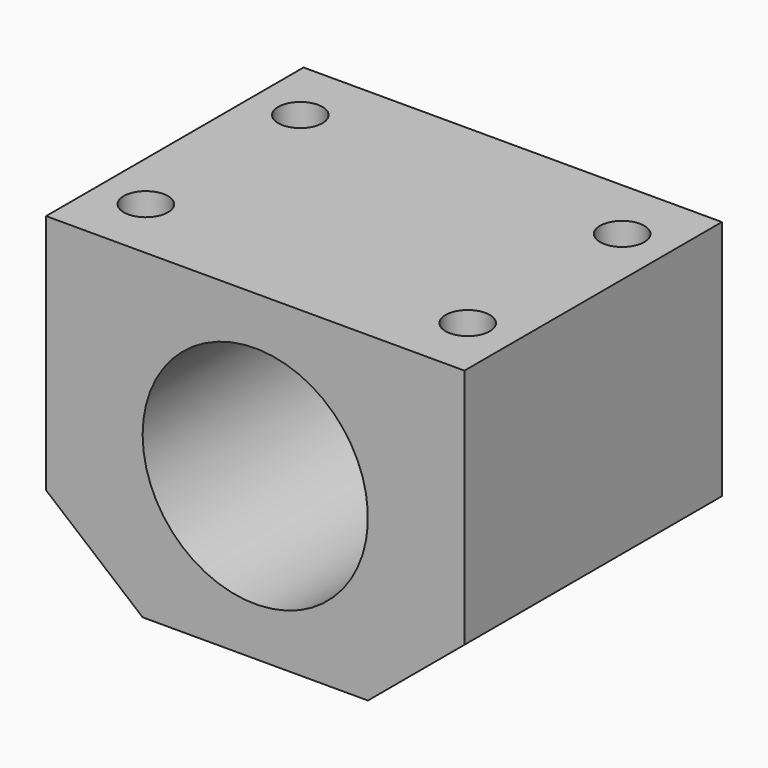
from build123d import *

# Parameters (mm, degrees)
F1_DEPTH = 40
F2_D     = 28
F4_D     = 5.5
F4_DEPTH = 20
F4_TIP   = 1.6523667023


with BuildPart() as f1:
    # F0 (on Front) → F1 (new body)
    with BuildSketch(Plane.XZ):
        Polygon((26, 22.7809774678), (-26, 22.7809774678), (-26, -7.2190225322), (-14, -17.2190225322), (14, -17.2190225322), (26, -7.2190225322), align=None)
    extrude(amount=F1_DEPTH)

    # F2 (through all)
    with Locations(Plane(origin=(0, 0, 0), x_dir=(1, 0, 0), z_dir=(0, 1, 0))):
        with Locations((0, -2.7809774678)):
            Hole(F2_D / 2)

    # F4
    with Locations(Plane.XY.offset(22.7809774678)):
        with Locations((-20, -8), (-20, -32), (20, -32), (20, -8)):
            Hole(F4_D / 2, depth=F4_DEPTH)
            with Locations((0, 0, -(F4_DEPTH + F4_TIP / 2))):  # 118° drill point
                Cone(0, F4_D / 2, F4_TIP, mode=Mode.SUBTRACT)


solid = f1.part
